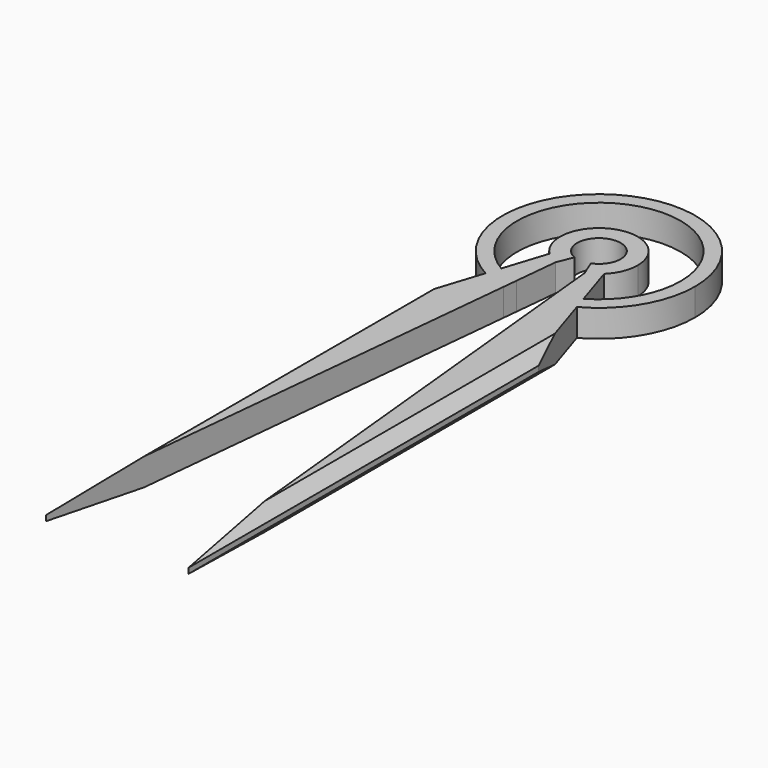
from build123d import *

# Parameters (mm, degrees)
F1_DEPTH = 6.35
F2_SIZE  = 2.54


with BuildPart() as f1:
    # F0 (on Top) → F1 (new body)
    with BuildSketch(Plane.XY):
        with BuildLine():
            ThreePointArc((-4.7385636703, 21.2063813699), (-7.7641105007, 22.0872871715), (-10.6362471428, 23.3837283631))
            Line((-10.6362471428, 23.3837283631), (-16.6063122451, 4.8134931872))
            Line((-16.6063122451, 4.8134931872), (-16.6063122451, -97.1717238426))
            Line((-16.6063122451, -97.1717238426), (-4.7385636703, 21.2063813699))
        make_face()
        with BuildLine():
            Line((16.6063122451, 4.8134931872), (10.6362471428, 23.3837283631))
            ThreePointArc((10.6362471428, 23.3837283631), (7.7641105007, 22.0872871715), (4.7385636703, 21.2063813699))
            Line((4.7385636703, 21.2063813699), (16.6063122451, -97.1717238426))
            Line((16.6063122451, -97.1717238426), (16.6063122451, 4.8134931872))
        make_face()
        with BuildLine():
            ThreePointArc((4.7385636703, 21.2063813699), (7.7641105007, 22.0872871715), (10.6362471428, 23.3837283631))
            Line((10.6362471428, 23.3837283631), (9.584756598, 26.6544509379))
            ThreePointArc((9.584756598, 26.6544509379), (7.0687284773, 25.427604555), (4.4000770701, 24.5827085745))
            Line((4.4000770701, 24.5827085745), (4.7385636703, 21.2063813699))
        make_face()
        with BuildLine():
            ThreePointArc((4.4000770701, 24.5827085745), (7.0687284773, 25.427604555), (9.584756598, 26.6544509379))
            Line((9.584756598, 26.6544509379), (6.36176439, 36.6797558963))
            ThreePointArc((6.36176439, 36.6797558963), (4.9698835047, 35.5533311125), (3.3834871789, 34.7229625859))
            Line((3.3834871789, 34.7229625859), (4.4000770701, 24.5827085745))
        make_face()
        with BuildLine():
            Line((-9.584756598, 26.6544509379), (-10.6362471428, 23.3837283631))
            ThreePointArc((-10.6362471428, 23.3837283631), (-7.7641105007, 22.0872871715), (-4.7385636703, 21.2063813699))
            Line((-4.7385636703, 21.2063813699), (-4.4000770701, 24.5827085745))
            ThreePointArc((-4.4000770701, 24.5827085745), (-7.0687284773, 25.427604555), (-9.584756598, 26.6544509379))
        make_face()
        with BuildLine():
            Line((-6.36176439, 36.6797558963), (-9.584756598, 26.6544509379))
            ThreePointArc((-9.584756598, 26.6544509379), (-7.0687284773, 25.427604555), (-4.4000770701, 24.5827085745))
            Line((-4.4000770701, 24.5827085745), (-3.3834871789, 34.7229625859))
            ThreePointArc((-3.3834871789, 34.7229625859), (-4.9698835047, 35.5533311125), (-6.36176439, 36.6797558963))
        make_face()
        with BuildLine():
            ThreePointArc((10.6362471428, 23.3837283631), (19.2483201468, 31.6259749482), (22.417739409, 43.1175897928))
            ThreePointArc((22.417739409, 43.1175897928), (-11.4916148446, 62.3659099396), (-10.6362471428, 23.3837283631))
            Line((-10.6362471428, 23.3837283631), (-9.584756598, 26.6544509379))
            ThreePointArc((-9.584756598, 26.6544509379), (-9.4950746919, 59.6326149698), (19.05, 43.1175897928))
            ThreePointArc((19.05, 43.1175897928), (16.515025177, 33.622515101), (9.584756598, 26.6544509379))
            Line((9.584756598, 26.6544509379), (10.6362471428, 23.3837283631))
        make_face()
        with BuildLine():
            ThreePointArc((9.0508425814, 43.1175897928), (-3.4884397228, 51.4691489127), (-6.36176439, 36.6797558963))
            ThreePointArc((-6.36176439, 36.6797558963), (-4.9698835047, 35.5533311125), (-3.3834871789, 34.7229625859))
            Line((-3.3834871789, 34.7229625859), (-1.8990624038, 38.405906231))
            ThreePointArc((-1.8990624038, 38.405906231), (-2.8424604649, 47.3279126433), (5.08, 43.1175897928))
            ThreePointArc((5.08, 43.1175897928), (4.2103228505, 40.2751293279), (1.8990624038, 38.405906231))
            Line((1.8990624038, 38.405906231), (3.3834871789, 34.7229625859))
            ThreePointArc((3.3834871789, 34.7229625859), (4.9698835047, 35.5533311125), (6.36176439, 36.6797558963))
            ThreePointArc((6.36176439, 36.6797558963), (8.3515591199, 39.62915007), (9.0508425814, 43.1175897928))
        make_face()
    extrude(amount=F1_DEPTH)

    # F2
    f2_edges = [f1.edges().sort_by_distance(p)[0] for p in [
        (-16.606312, -46.179115, 6.35),
        (16.606312, -46.179115, 6.35),
        (16.606312, -46.179115, 0),
        (-16.606312, -46.179115, 0),
    ]]
    chamfer(f2_edges, length=F2_SIZE)


solid = f1.part
